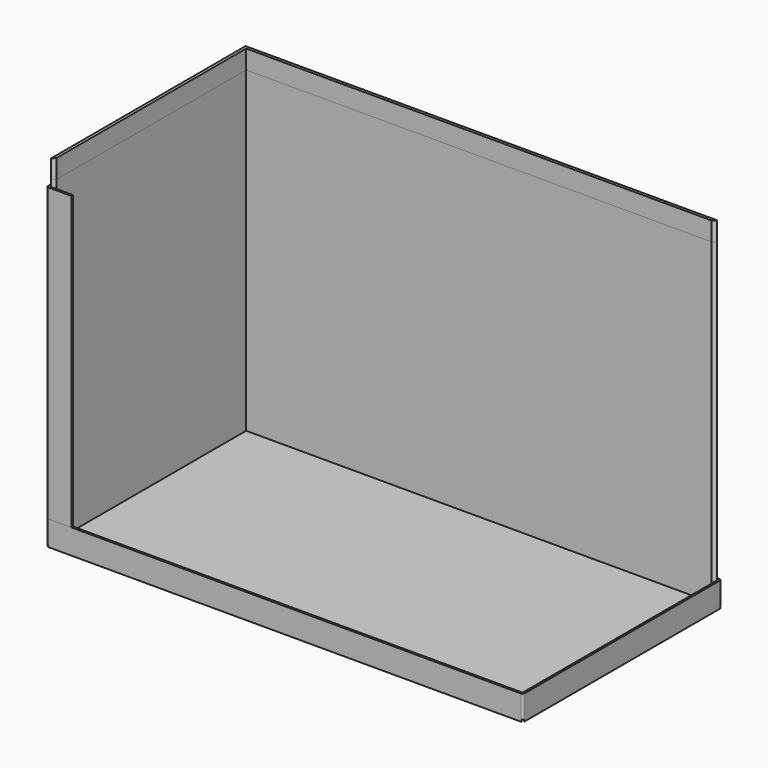
from build123d import *

# Parameters (mm, degrees)
F1_DEPTH  = 2
F3_W      = 476
F3_H      = 246
F4_DEPTH  = 23
F5_W      = 475
F5_H      = 245
F6_DEPTH  = 3
F7_DEPTH  = 25
F10_DEPTH = 320
F12_DEPTH = 320
F14_DEPTH = 294
F16_DEPTH = 19
F18_DEPTH = 19


with BuildPart() as f1:
    # F0 (on Top) → F1 (new body)
    with BuildSketch(Plane.XY):
        Polygon((238.585786, 125), (-238.585786, 125), (-213.585786, 100), (213.585786, 100), align=None)
        Polygon((240, -123.585786), (240, 123.585786), (215, 98.585786), (215, -98.585786), align=None)
        Polygon((-238.585786, -125), (238.585786, -125), (213.585786, -100), (-213.585786, -100), align=None)
        Polygon((-240, 123.585786), (-240, -123.585786), (-215, -98.585786), (-215, 98.585786), align=None)
    extrude(amount=F1_DEPTH)

    # F3 (on face) → F4 (join)
    with BuildSketch(Plane.XY.offset(2)):
        with BuildLine():
            Line((238, 125), (-238, 125))
            ThreePointArc((-238, 125), (-239.414214, 124.414214), (-240, 123))
            Line((-240, 123), (-240, -123))
            ThreePointArc((-240, -123), (-239.414214, -124.414214), (-238, -125))
            Line((-238, -125), (238, -125))
            ThreePointArc((238, -125), (239.414214, -124.414214), (240, -123))
            Line((240, -123), (240, 123))
            ThreePointArc((240, 123), (239.414214, 124.414214), (238, 125))
        make_face()
        Rectangle(F3_W, F3_H, mode=Mode.SUBTRACT)
    extrude(amount=F4_DEPTH)


with BuildPart() as f6:
    # F5 (on face) → F6 (new body)
    with BuildSketch(Plane.XY.offset(2)):
        Rectangle(F5_W, F5_H)
    extrude(amount=F6_DEPTH)


with BuildPart() as f7:
    # F3 (on face) → F7 (new body)
    with BuildSketch(Plane.XY.offset(2)):
        with BuildLine():
            Line((238, 125), (-238, 125))
            ThreePointArc((-238, 125), (-239.414214, 124.414214), (-240, 123))
            Line((-240, 123), (-240, -123))
            ThreePointArc((-240, -123), (-239.414214, -124.414214), (-238, -125))
            Line((-238, -125), (238, -125))
            ThreePointArc((238, -125), (239.414214, -124.414214), (240, -123))
            Line((240, -123), (240, 123))
            ThreePointArc((240, 123), (239.414214, 124.414214), (238, 125))
        make_face()
        Rectangle(F3_W, F3_H, mode=Mode.SUBTRACT)
    extrude(amount=F7_DEPTH)


with BuildPart() as f10:
    # F9 (on face) → F10 (new body)
    with BuildSketch(Plane.XY.offset(5)):
        Polygon((237.5, 122.5), (-237.5, 122.5), (-234.5, 119.5), (234.5, 119.5), align=None)
    extrude(amount=F10_DEPTH)


with BuildPart() as f12:
    # F11 (on face) → F12 (new body, through all)
    with BuildSketch(Plane.XY.offset(5)):
        Polygon((-234.5, 119.5), (-237.5, 122.5), (-237.5, -122.5), (-234.5, -119.5), align=None)
    extrude(amount=F12_DEPTH)


with BuildPart() as f14:
    # F13 (on face) → F14 (new body)
    with BuildSketch(Plane.XY.offset(25)):
        with BuildLine():
            Line((-240, -100), (-240, -123))
            ThreePointArc((-240, -123), (-239.414214, -124.414214), (-238, -125))
            Line((-238, -125), (-215, -125))
            Line((-215, -125), (-215, -123))
            Line((-215, -123), (-238, -123))
            Line((-238, -123), (-238, -100))
            Line((-238, -100), (-240, -100))
        make_face()
    extrude(amount=F14_DEPTH)


with BuildPart() as f16:
    # F15 (on face) → F16 (new body)
    with BuildSketch(Plane.XY.offset(325)):
        Polygon((234.5, 119.5), (237.5, 122.5), (-237.5, 122.5), (-234.5, 119.5), align=None)
    extrude(amount=F16_DEPTH)


with BuildPart() as f18:
    # F17 (on face) → F18 (new body)
    with BuildSketch(Plane.XY.offset(325)):
        Polygon((-234.5, -119.5), (-234.5, 119.5), (-237.5, 122.5), (-237.5, -122.5), align=None)
    extrude(amount=F18_DEPTH)


solid = Compound([f1.part, f6.part, f10.part, f12.part, f14.part, f16.part, f18.part])
